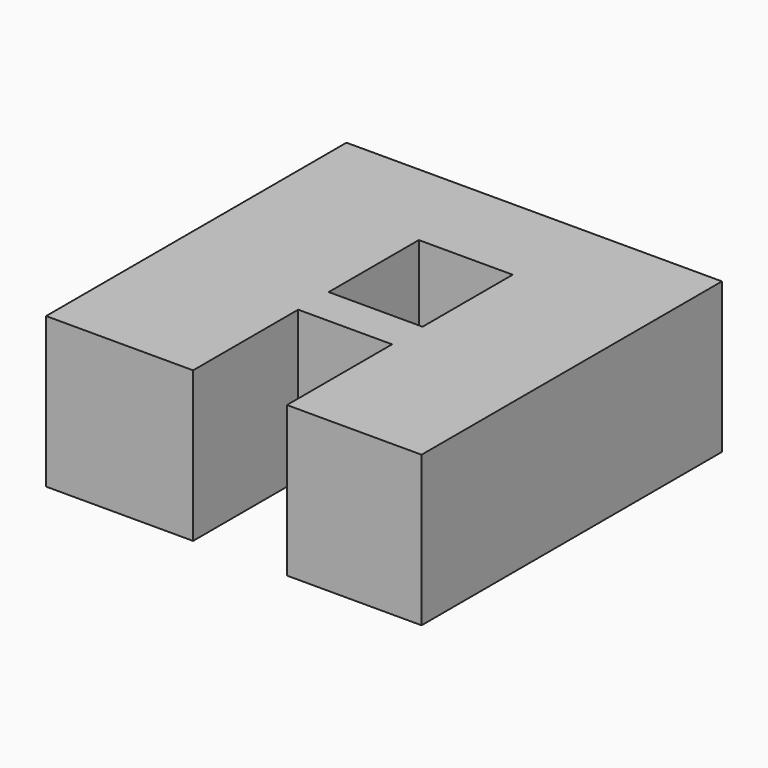
from build123d import *

# Parameters (mm, degrees)
F0_W     = 6.35
F0_H     = 7.62
F1_DEPTH = 10.16


with BuildPart() as f1:
    # F0 (on Top) → F1 (new body)
    with BuildSketch(Plane.XY):
        Polygon((0, 25.4), (0, 0), (9.943829, 0), (9.943829, 8.89), (16.293829, 8.89), (16.293829, 0), (25.4, 0), (25.4, 25.4), align=None)
        with Locations((13.118829, 15.277632)):
            Rectangle(F0_W, F0_H, mode=Mode.SUBTRACT)
    extrude(amount=F1_DEPTH)


solid = f1.part
